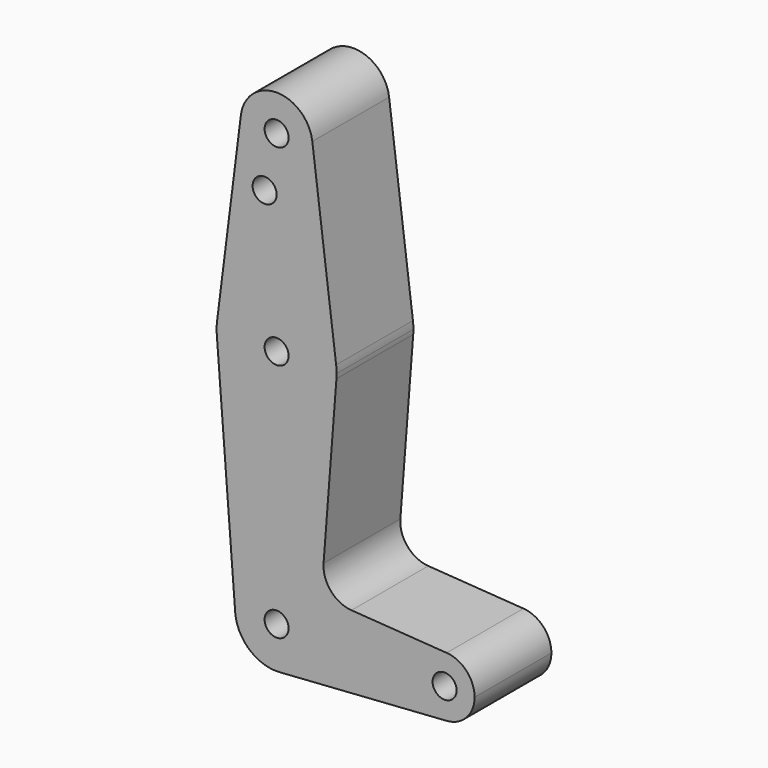
from build123d import *

# Parameters (mm, degrees)
F0_R     = 3.175
F1_DEPTH = 25.4


with BuildPart() as f1:
    # F0 (on Front) → F1 (new body)
    with BuildSketch(Plane.XZ):
        with BuildLine():
            ThreePointArc((10.9560984125, -0.8455780324), (10.9805318034, -0.4231027617), (10.9886802953, 0))
            ThreePointArc((10.9886802953, 0), (8.0324283114, 7.4987458988), (0.7542957208, 10.9627611759))
            ThreePointArc((0.7542957208, 10.9627611759), (-7.8024619995, 7.7377439463), (-10.9560984125, -0.8455780324))
            ThreePointArc((-10.9560984125, -0.8455780324), (-7.1839086318, -8.3152000218), (0.7542957208, -10.9627611759))
            ThreePointArc((0.7542957208, -10.9627611759), (7.7377439463, -7.8024619995), (10.9560984125, -0.8455780324))
        make_face()
        Circle(F0_R, mode=Mode.SUBTRACT)
        with BuildLine():
            ThreePointArc((-10.9560984125, -0.8455780324), (-7.8024619995, 7.7377439463), (0.7542957208, 10.9627611759))
            Line((0.7542957208, 10.9627611759), (11.8087488118, 10.2021565683))
            Line((11.8087488118, 10.2021565683), (12.4256328253, 18.195081766))
            Line((12.4256328253, 18.195081766), (15.827929981, 62.2784200738))
            ThreePointArc((15.827929981, 62.2784200738), (0, 47.625), (-15.827929981, 62.2784200738))
            Line((-15.827929981, 62.2784200738), (-10.9560984125, -0.8455780324))
        make_face()
        with BuildLine():
            Line((11.8087488118, 10.2021565683), (10.9560984125, -0.8455780324))
            ThreePointArc((10.9560984125, -0.8455780324), (7.7377439463, -7.8024619995), (0.7542957208, -10.9627611759))
            Line((0.7542957208, -10.9627611759), (44.9948536242, -7.9187777326))
            ThreePointArc((44.9948536242, -7.9187777326), (36.5125, 0), (44.9948536242, 7.9187777326))
            Line((44.9948536242, 7.9187777326), (19.8065347698, 9.651866762))
            Line((19.8065347698, 9.651866762), (11.8087488118, 10.2021565683))
        make_face()
        with BuildLine():
            Line((12.4256328253, 18.195081766), (11.8087488118, 10.2021565683))
            Line((11.8087488118, 10.2021565683), (19.8065347698, 9.651866762))
            ThreePointArc((19.8065347698, 9.651866762), (14.3362963282, 12.3858286836), (12.4256328253, 18.195081766))
        make_face()
        with BuildLine():
            ThreePointArc((-15.7504882737, 65.484375), (-15.8703705569, 63.8833580385), (-15.827929981, 62.2784200738))
            ThreePointArc((-15.827929981, 62.2784200738), (0, 47.625), (15.827929981, 62.2784200738))
            ThreePointArc((15.827929981, 62.2784200738), (15.8632281306, 62.8887567786), (15.875, 63.5))
            ThreePointArc((15.875, 63.5), (15.8438414904, 64.4941387366), (15.7504882737, 65.484375))
            ThreePointArc((15.7504882737, 65.484375), (0, 79.375), (-15.7504882737, 65.484375))
        make_face()
        with Locations((0, 63.5)):
            Circle(F0_R, mode=Mode.SUBTRACT)
        with BuildLine():
            ThreePointArc((44.9948536242, 7.9187777326), (36.5125, 0), (44.9948536242, -7.9187777326))
            ThreePointArc((44.9948536242, -7.9187777326), (50.252097978, -5.4166008995), (52.3875, 0))
            ThreePointArc((52.3875, 0), (50.252097978, 5.4166008995), (44.9948536242, 7.9187777326))
        make_face()
        with Locations((44.45, 0)):
            Circle(F0_R, mode=Mode.SUBTRACT)
        with BuildLine():
            Line((-9.4502929642, 115.490625), (-15.7504882737, 65.484375))
            ThreePointArc((-15.7504882737, 65.484375), (0, 79.375), (15.7504882737, 65.484375))
            Line((15.7504882737, 65.484375), (9.4502929642, 115.490625))
            ThreePointArc((9.4502929642, 115.490625), (9.5063048942, 114.896483242), (9.525, 114.3))
            ThreePointArc((9.525, 114.3), (-0.596483242, 104.7936951058), (-9.4502929642, 115.490625))
        make_face()
        with Locations((-3.175, 100.0252)):
            Circle(F0_R, mode=Mode.SUBTRACT)
        with BuildLine():
            ThreePointArc((9.4502929642, 115.490625), (0, 123.825), (-9.4502929642, 115.490625))
            ThreePointArc((-9.4502929642, 115.490625), (-0.596483242, 104.7936951058), (9.525, 114.3))
            ThreePointArc((9.525, 114.3), (9.5063048942, 114.896483242), (9.4502929642, 115.490625))
        make_face()
        with Locations((0, 114.3)):
            Circle(F0_R, mode=Mode.SUBTRACT)
        with BuildLine():
            ThreePointArc((0.7542957208, 10.9627611759), (8.0324283114, 7.4987458988), (10.9886802953, 0))
            ThreePointArc((10.9886802953, 0), (10.9805318034, -0.4231027617), (10.9560984125, -0.8455780324))
            Line((10.9560984125, -0.8455780324), (11.8087488118, 10.2021565683))
            Line((11.8087488118, 10.2021565683), (0.7542957208, 10.9627611759))
        make_face()
    extrude(amount=F1_DEPTH)


solid = f1.part
